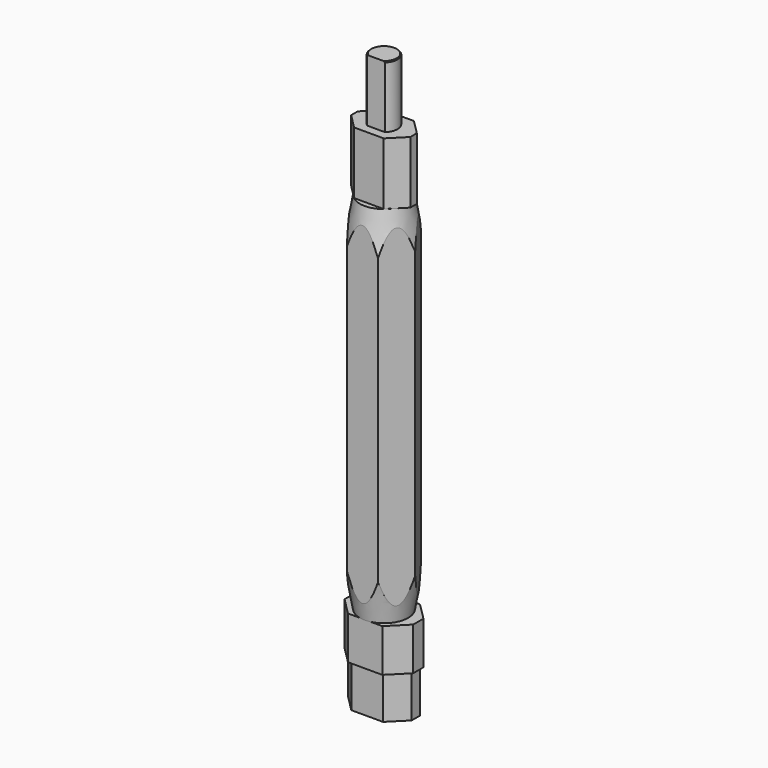
from build123d import *

# Parameters (mm, degrees)
F1_DEPTH  = 14.5
F2_R      = 3.15
F3_DEPTH  = 14.5
F4_SIZE   = 0.2
F5_W      = 3.287728643
F5_H      = 0.8
F5_W_2    = 2.4924869649
F6_DEPTH  = 14.5
F8_DEPTH  = 85
F9_R      = 16.1404886934
F9_R_2    = 5.65
F10_DEPTH = 10
F10_TAPER = 9.9
F11_R     = 17.5534972963
F11_R_2   = 5.65
F12_DEPTH = 25
F12_TAPER = 10
F14_DEPTH = 10
F16_DEPTH = 10


with BuildPart() as f1:
    # F0 (on Top) → F1 (new body)
    with BuildSketch(Plane.XY):
        Polygon((-3.45, -4.4), (0, -4.4), (3.45, -4.4), (6.9, -0.95), (6.9, 0.95), (3.45, 4.4), (-3.45, 4.4), (-6.9, 0.95), (-6.9, -0.95), align=None)
    extrude(amount=F1_DEPTH)

    # F2 (on face) → F3 (join)
    with BuildSketch(Plane.XY.offset(14.5)):
        Circle(F2_R)
    extrude(amount=F3_DEPTH)

    # F4
    f4_edges = [f1.edges().sort_by_distance(p)[0] for p in [
        (-3.15, 0, 29),
    ]]
    chamfer(f4_edges, length=F4_SIZE)

    # F5 (on face) → F6 (cut)
    with BuildSketch(Plane.XY.offset(29)):
        with Locations((1.6438643215, -2.75)):
            Rectangle(F5_W, F5_H)
        with Locations((-1.2462434825, -2.75)):
            Rectangle(F5_W_2, F5_H)
    extrude(amount=-F6_DEPTH, mode=Mode.SUBTRACT)

    # F7 (on face) → F8 (join)
    with BuildSketch(Plane(origin=(0, 0, 0), x_dir=(1, 0, 0), z_dir=(0, 0, -1))):
        Polygon((3.6373066959, -6.3), (7.2746133918, 0), (3.6373066959, 6.3), (-3.6373066959, 6.3), (-7.2746133918, 0), (-3.6373066959, -6.3), align=None)
    extrude(amount=F8_DEPTH)

    # F9 (on face) → F10 (cut)
    with BuildSketch(Plane.XY):
        Circle(F9_R)
        Circle(F9_R_2, mode=Mode.SUBTRACT)
    extrude(amount=-F10_DEPTH, taper=F10_TAPER, mode=Mode.SUBTRACT)

    # F11 (on face) → F12 (cut)
    with BuildSketch(Plane(origin=(0, 0, -85), x_dir=(1, 0, 0), z_dir=(0, 0, -1))):
        Circle(F11_R)
        Circle(F11_R_2, mode=Mode.SUBTRACT)
    extrude(amount=-F12_DEPTH, taper=F12_TAPER, mode=Mode.SUBTRACT)

    # F13 (on face) → F14 (join)
    with BuildSketch(Plane(origin=(0, 0, -85), x_dir=(1, 0, 0), z_dir=(0, 0, -1))):
        Polygon((-4, -5.5), (0, -5.5), (4, -5.5), (8, -1.5), (8, 0), (8, 1.5), (4, 5.5), (0, 5.5), (-4, 5.5), (-8, 1.5), (-8, 0), (-8, -1.5), align=None)
    extrude(amount=F14_DEPTH)

    # F15 (on face) → F16 (join)
    with BuildSketch(Plane(origin=(0, 0, -95), x_dir=(1, 0, 0), z_dir=(0, 0, -1))):
        Polygon((-3.7, -4.9), (0, -4.9), (3.7, -4.9), (7.4, -1.2), (7.4, 0), (7.4, 1.2), (3.7, 4.9), (0, 4.9), (-3.7, 4.9), (-7.4, 1.2), (-7.4, 0), (-7.4, -1.2), align=None)
    extrude(amount=F16_DEPTH)


solid = f1.part
